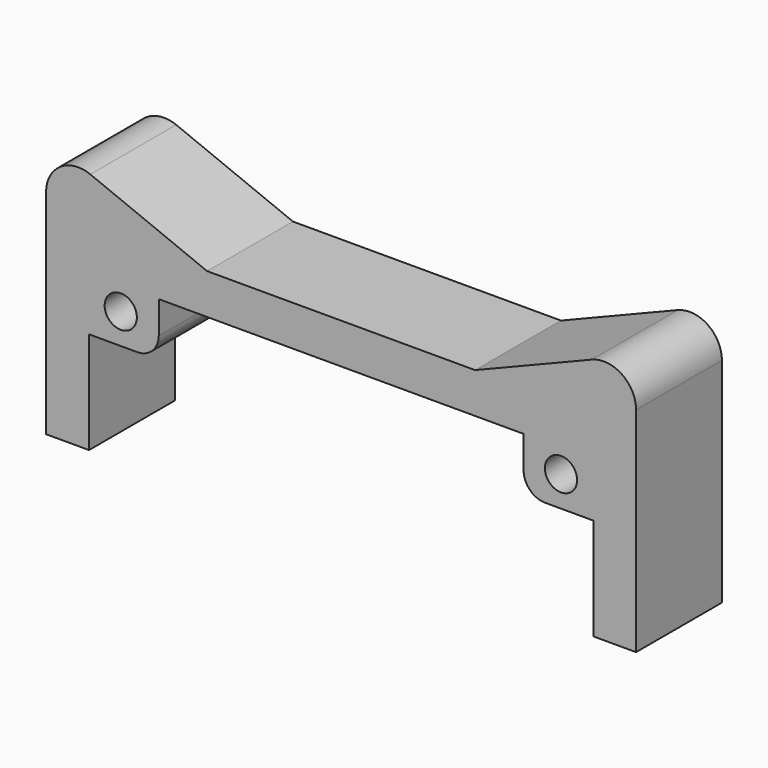
from build123d import *

# Parameters (mm, degrees)
PAD_DEPTH       = 10
SKETCH001_R     = 1.5
POCKET_DEPTH    = 10.001
FILLET_R        = 3
POCKET001_DEPTH = 10.001
FILLET001_R     = 2


with BuildPart() as part:
    # Sketch → Pad (new body)
    with BuildSketch(Plane.XZ):
        Polygon((52.5, 0), (52.5, 24.328), (67.5019, 18.2611), (92.4761, 18.2611), (107.478, 24.328), (107.478, 0), align=None)
    extrude(amount=PAD_DEPTH)

    # Sketch001 → Pocket (cut, through all)
    with BuildSketch(Plane(origin=(0, 0, 0), x_dir=(1, 0, 0), z_dir=(0, 1, 0))):
        with Locations((100.483, -12.3298)):
            Circle(SKETCH001_R)
        with Locations((59.458744, -12.3298)):
            Circle(SKETCH001_R)
    extrude(amount=-POCKET_DEPTH, mode=Mode.SUBTRACT)

    # Fillet
    fillet_edges = [part.edges().sort_by_distance(p)[0] for p in [
        (52.5, -5, 24.328),
        (107.478, -5, 24.328),
    ]]
    fillet(fillet_edges, radius=FILLET_R)

    # Sketch002 → Pocket001 (cut, through all)
    with BuildSketch(Plane.XZ.offset(10)):
        Polygon((56.5, 0), (56.5, 9.5), (63, 9.5), (63, 14.5), (97, 14.5), (97, 9.5), (103.5, 9.5), (103.5, 0), align=None)
    extrude(amount=-POCKET001_DEPTH, mode=Mode.SUBTRACT)

    # Fillet001
    fillet001_edges = [part.edges().sort_by_distance(p)[0] for p in [
        (63, -5, 9.5),
        (97, -5, 9.5),
    ]]
    fillet(fillet001_edges, radius=FILLET001_R)


solid = part.part
